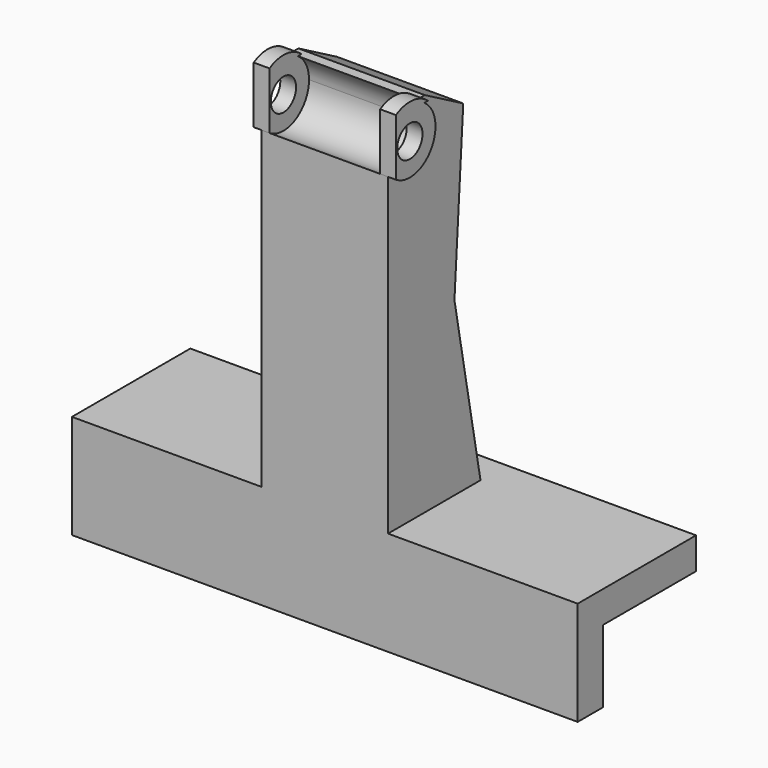
from build123d import *

# Parameters (mm, degrees)
F1_DEPTH      = 101.6
F4_DEPTH      = 12.7
F4_DEPTH_BACK = 12.7
F6_DEPTH      = 25.4
F7_DEPTH      = 6.35
F9_R          = 3.1750969971
F10_DEPTH     = 1.5875
F8_R          = 3.175
F11_DEPTH     = 1.5875
F12_W         = 12.8773497418
F12_H         = 30.8604761958
F13_DEPTH     = 127


with BuildPart() as f1:
    # F0 (on Right) → F1 (new body)
    with BuildSketch(Plane.YZ):
        Polygon((0, 14.5646330879), (0, 0), (6.35, 0), (6.35, 14.5646330879), (12.7, 14.5646330879), (23.3790262025, 14.5646330879), (23.3790262025, 20.9146330879), (0, 20.9146330879), align=None)
    extrude(amount=F1_DEPTH)

    # F3 (on offset) → F4 (join, two sides)
    with BuildSketch(Plane.YZ.offset(50.8)) as f4_sk:
        Polygon((0, 94.7142243385), (0, 18.5392871499), (19.907515496, 16.7202148587), (23.2162494212, 20.9232009947), (16.6799279355, 55.4184156182), (18.8936255872, 89.3121510744), (9.2339664698, 94.7142243385), align=None)
    extrude(amount=F4_DEPTH)
    extrude(f4_sk.sketch, amount=-F4_DEPTH_BACK)

    # F5 (on face) → F6 (cut)
    with BuildSketch(Plane.YZ.offset(63.5)):
        with BuildLine():
            Line((0, 94.7142243385), (7.1361868072, 94.7142243385))
            ThreePointArc((7.1361868072, 94.7142243385), (-1.8445002334, 92.9776508861), (0, 84.018507737))
            Line((0, 84.018507737), (0, 94.7142243385))
        make_face()
        with BuildLine():
            ThreePointArc((0, 84.018507737), (6.5705000835, 83.7584694055), (9.9331201889, 89.4092991948))
            ThreePointArc((9.9331201889, 89.4092991948), (9.1910640748, 92.407843305), (7.1361868072, 94.7142243385))
            Line((7.1361868072, 94.7142243385), (0, 94.7142243385))
            Line((0, 94.7142243385), (0, 84.018507737))
        make_face()
    extrude(amount=-F6_DEPTH, mode=Mode.SUBTRACT)

    # F7 (add): a face of the model
    f7_faces = [f1.faces().sort_by_distance(p)[0] for p in [
        (50.8, 23.3790262025, 17.7396330879),
    ]]
    extrude(f7_faces, amount=F7_DEPTH)


with BuildPart() as f10:
    # F9 (on face) → F10 (new body, symmetric)
    with BuildSketch(Plane(origin=(38.1, 0, 0), x_dir=(0, -1, 0), z_dir=(-1, 0, 0))):
        with BuildLine():
            ThreePointArc((0, 83.3692482057), (2.5470454574, 85.9241336529), (3.4789796589, 89.4092991948))
            ThreePointArc((3.4789796589, 89.4092991948), (-0.5837001335, 95.7521521156), (-8.0442534776, 94.7142243385))
            Line((-8.0442534776, 94.7142243385), (-7.1361868072, 94.7142243385))
            ThreePointArc((-7.1361868072, 94.7142243385), (-8.8519906113, 85.8409475035), (0, 84.018507737))
            Line((0, 84.018507737), (0, 83.3692482057))
        make_face()
        with Locations((-3.5037451889, 89.4092991948)):
            Circle(F9_R, mode=Mode.SUBTRACT)
    extrude(amount=F10_DEPTH, both=True)


with BuildPart() as f11:
    # F8 (on face) → F11 (new body, symmetric)
    with BuildSketch(Plane.YZ.offset(63.5)):
        with BuildLine():
            Line((7.1361868072, 94.7142243385), (8.0477515951, 94.7142243385))
            ThreePointArc((8.0477515951, 94.7142243385), (-2.1938488305, 93.4500475649), (0, 83.3666181135))
            Line((0, 83.3666181135), (0, 84.018507737))
            ThreePointArc((0, 84.018507737), (8.8519906113, 85.8409475035), (7.1361868072, 94.7142243385))
        make_face()
        with Locations((3.5037451889, 89.4092991948)):
            Circle(F8_R, mode=Mode.SUBTRACT)
    extrude(amount=F11_DEPTH, both=True)


with BuildPart() as f13_tool:
    # F12 (on face) → F13 (new body)
    with BuildSketch(Plane.YZ.offset(101.6)):
        with Locations((-6.4386748709, 83.3296589553)):
            Rectangle(F12_W, F12_H)
    extrude(amount=-F13_DEPTH)


with BuildPart() as f10_1:
    add(f10.part)

    # F13: cut by f13_tool
    add(f13_tool.part, mode=Mode.SUBTRACT)


with BuildPart() as f11_1:
    add(f11.part)

    # F13: cut by f13_tool
    add(f13_tool.part, mode=Mode.SUBTRACT)


solid = Compound([f1.part, f10_1.part, f11_1.part])
